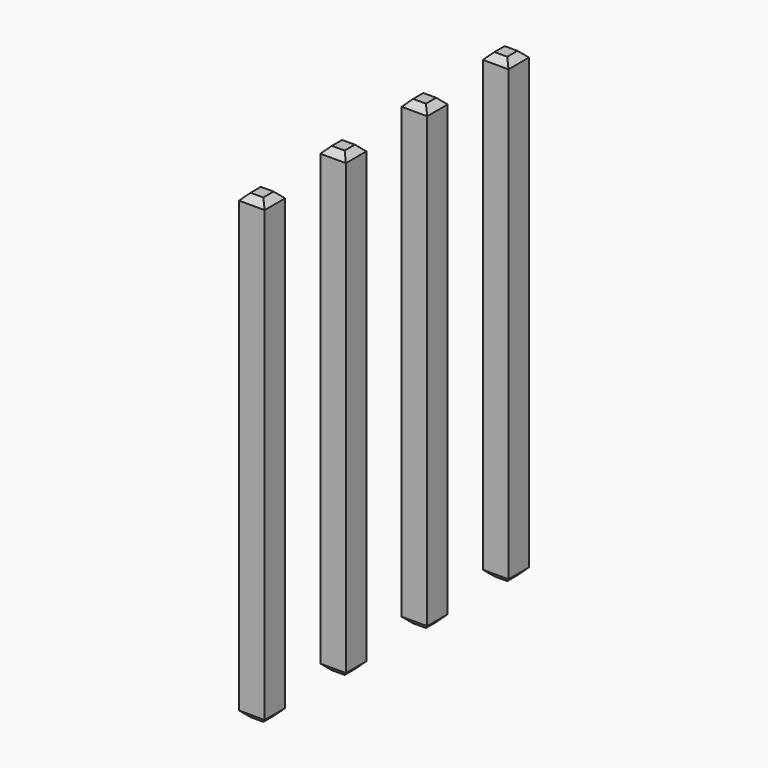
from build123d import *

# Parameters (mm, degrees)
SKETCH210_W       = 0.64
SKETCH210_H       = 11.54
PAD064_DEPTH      = 0.32
PAD064_DEPTH_BACK = 0.32
CHAMFER017_SIZE   = 0.16
ARRAY003_Y_COUNT  = 4
ARRAY003_Y_PITCH  = 2.54


with BuildPart() as part:
    # Sketch210 → Pad064 (new body, two sides)
    with BuildSketch(Plane.XZ) as pad064_sk:
        with Locations((0, 2.77)):
            Rectangle(SKETCH210_W, SKETCH210_H)
    extrude(amount=PAD064_DEPTH)
    extrude(pad064_sk.sketch, amount=-PAD064_DEPTH_BACK)

    # Chamfer017
    chamfer017_edges = [part.edges().sort_by_distance(p)[0] for p in [
        (0.32, 0, 8.54),
        (-0.32, 0, 8.54),
        (0, 0.32, 8.54),
        (0, -0.32, 8.54),
        (-0.32, 0, -3),
        (0.32, 0, -3),
        (0, 0.32, -3),
        (0, -0.32, -3),
    ]]
    chamfer(chamfer017_edges, length=CHAMFER017_SIZE)


with BuildPart() as part_1:
    # Body037 placement: moved
    add(part.part.moved(Location((-1.5, 0, 0))))

    # Array003 Y: part ×4


with BuildPart() as part_2:
    add(part_1.part)
    with Locations(*[(0, -i * ARRAY003_Y_PITCH, 0) for i in range(1, ARRAY003_Y_COUNT)]):
        add(part_1.part)


solid = part_2.part
